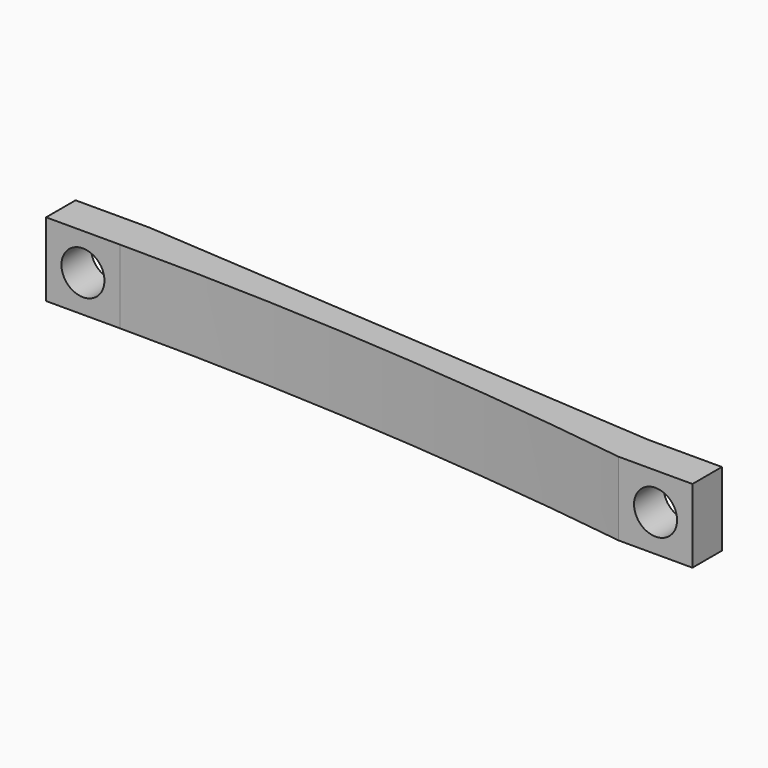
from build123d import *

# Parameters (mm, degrees)
F1_DEPTH = 6
F2_R     = 1.75
F3_DEPTH = 6.001


with BuildPart() as f1:
    # F0 (on Top) → F1 (new body)
    with BuildSketch(Plane.XY):
        with BuildLine():
            ThreePointArc((0, 0), (21.552262, -0.75091), (43, -3))
            Line((43, -3), (49, -3))
            Line((49, -3), (49, 0))
            Line((49, 0), (43, 0))
            Line((43, 0), (0, 3))
            Line((0, 3), (-6, 3))
            Line((-6, 3), (-6, 0))
            Line((-6, 0), (0, 0))
        make_face()
    extrude(amount=F1_DEPTH)

    # F2 (on face) → F3 (cut, through all)
    with BuildSketch(Plane(origin=(0, 3, 0), x_dir=(-1, 0, 0), z_dir=(0, 1, 0))):
        with Locations((3, 3)):
            Circle(F2_R)
        with Locations((-46, 3)):
            Circle(F2_R)
    extrude(amount=-F3_DEPTH, mode=Mode.SUBTRACT)


solid = f1.part
